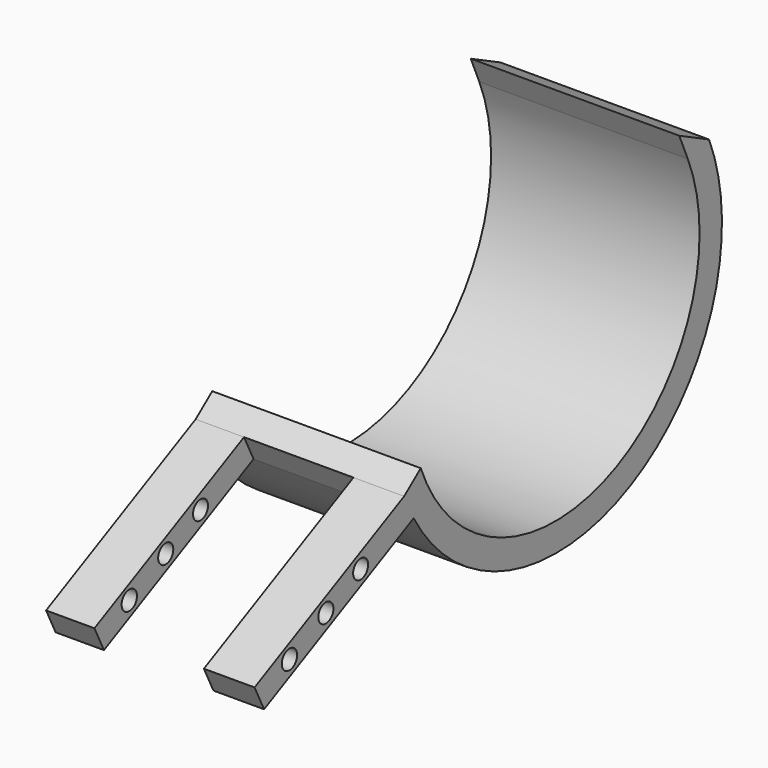
from build123d import *

# Parameters (mm, degrees)
F1_DEPTH = 76.2
F2_W     = 17.6722221076
F2_H     = 9.8298916579
F2_W_2   = 18.5227831721
F3_DEPTH = 76.2
F4_R     = 3.4516477469
F4_R_2   = 3.5094678627
F5_DEPTH = 127
F6_R     = 3.428244009
F7_DEPTH = 127


with BuildPart() as f1:
    # F0 (on Right) → F1 (new body)
    with BuildSketch(Plane.YZ):
        with BuildLine():
            Line((-43.5515455902, 4.9651595764), (-39.2007894463, -3.8494697966))
            ThreePointArc((-39.2007894463, -3.8494697966), (59.7212641248, -33.7173735079), (95.7566574216, 63.1284564734))
            Line((95.7566574216, 63.1284564734), (82.136558344, 69.8877791238))
            Line((82.136558344, 69.8877791238), (86.031280458, 60.8586706221))
            ThreePointArc((86.031280458, 60.8586706221), (50.4707031722, -26.2634284737), (-35.969786346, 10.9233511612))
            Line((-35.969786346, 10.9233511612), (-43.5515455902, 4.9651595764))
        make_face()
    extrude(amount=F1_DEPTH)

    # F2 (on face) → F3 (join)
    with BuildSketch(Plane(origin=(0, -33.0492176978, -16.3125505187), x_dir=(1, 0, 0), z_dir=(0, -0.8967168388, -0.4426046894))):
        with Locations((8.8361110538, 18.8135146783)):
            Rectangle(F2_W, F2_H)
        with Locations((66.9386084139, 18.8135146783)):
            Rectangle(F2_W_2, F2_H)
    extrude(amount=F3_DEPTH)

    # F4 (on face) → F5 (cut)
    with BuildSketch(Plane.YZ.offset(76.2)):
        with Locations((-79.3107077479, -18.0164370686)):
            Circle(F4_R)
        with Locations((-95.9507897496, -26.2444168329)):
            Circle(F4_R_2)
    extrude(amount=-F5_DEPTH, mode=Mode.SUBTRACT)

    # F6 (on face) → F7 (cut)
    with BuildSketch(Plane.YZ.offset(76.2)):
        with Locations((-63.4221956134, -10.355903767)):
            Circle(F6_R)
    extrude(amount=-F7_DEPTH, mode=Mode.SUBTRACT)


solid = f1.part
